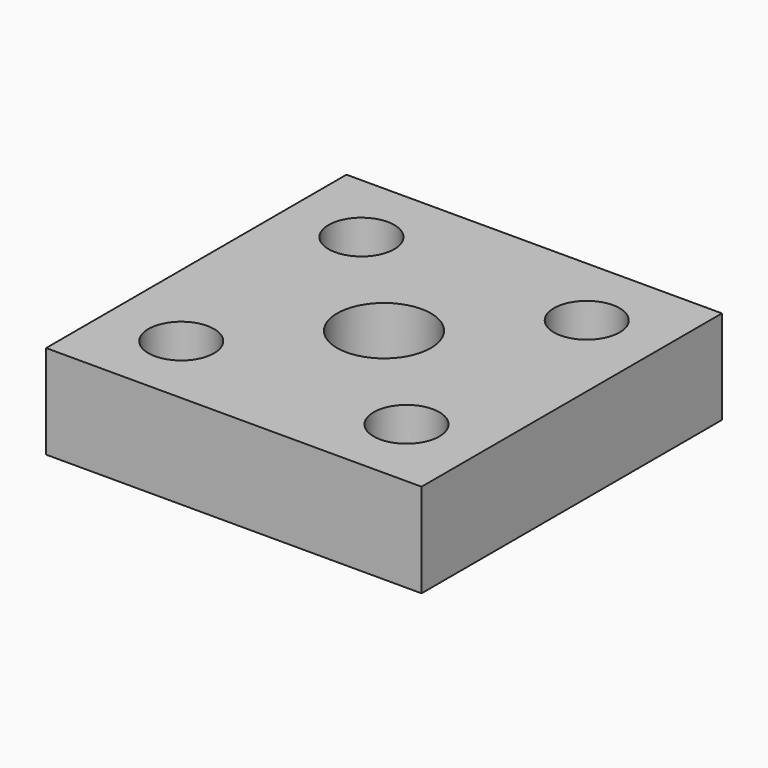
from build123d import *

# Parameters (mm, degrees)
F0_W     = 101.6
F0_H     = 101.6
F0_R     = 8.89
F0_R_2   = 12.7
F1_DEPTH = 25.4


with BuildPart() as f1:
    # F0 (on Top) → F1 (new body)
    with BuildSketch(Plane.XY):
        Rectangle(F0_W, F0_H)
        with Locations((-30.48, -30.48)):
            Circle(F0_R, mode=Mode.SUBTRACT)
        Circle(F0_R_2, mode=Mode.SUBTRACT)
        with Locations((30.48, -30.48)):
            Circle(F0_R, mode=Mode.SUBTRACT)
        with Locations((-30.48, 30.48)):
            Circle(F0_R, mode=Mode.SUBTRACT)
        with Locations((30.48, 30.48)):
            Circle(F0_R, mode=Mode.SUBTRACT)
    extrude(amount=F1_DEPTH)


solid = f1.part
